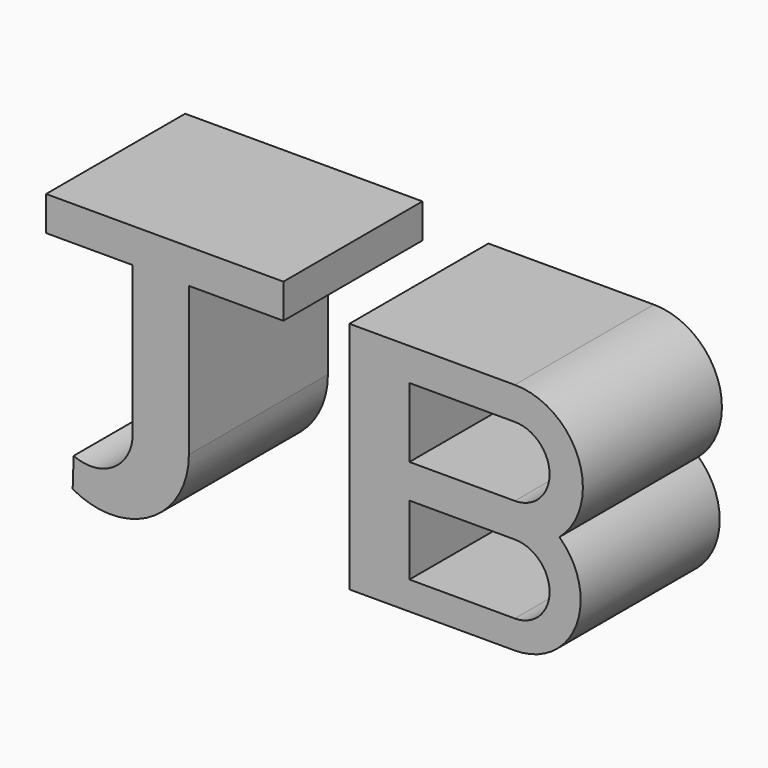
from build123d import *

# Parameters (mm, degrees)
F1_W     = 30.3102508187
F1_H     = 9.3834362134
F1_H_2   = 8.121065446
F1_H_3   = 9.7791151471
F2_DEPTH = 50
F0_W     = 16.1465834826
F0_H     = 42.7742786705


with BuildPart() as f2:
    # F1 (on Front) → F2 (new body)
    with BuildSketch(Plane.XZ):
        Polygon((32.2931706905, 48.1918900415), (15.0134908035, 48.1918900415), (15.0134908035, -19.091726765), (32.2931706905, -19.091726765), (32.2931706905, -10.970661319), (32.2931706905, 9.029338681), (32.2931706905, 18.8084538281), (32.2931706905, 38.8084538281), align=None)
        with Locations((47.4482960999, 43.5001719348)):
            Rectangle(F1_W, F1_H)
        with Locations((47.4482960999, -15.031194042)):
            Rectangle(F1_W, F1_H_2)
        with Locations((47.4482960999, 13.9188962546)):
            Rectangle(F1_W, F1_H_3)
        with BuildLine():
            ThreePointArc((62.6034215093, 9.029338681), (69.4460070683, 10.2638059158), (75.4258349795, 13.8115579703))
            ThreePointArc((75.4258349795, 13.8115579703), (69.4842509545, 17.5150933645), (62.6034215093, 18.8084538281))
            Line((62.6034215093, 18.8084538281), (62.6034215093, 9.029338681))
        make_face()
        with BuildLine():
            ThreePointArc((62.6034215093, -19.091726765), (80.2601513422, -7.0224659137), (75.4258349795, 13.8115579703))
            ThreePointArc((75.4258349795, 13.8115579703), (69.4460070683, 10.2638059158), (62.6034215093, 9.029338681))
            ThreePointArc((62.6034215093, 9.029338681), (72.6034215093, -0.970661319), (62.6034215093, -10.970661319))
            Line((62.6034215093, -10.970661319), (62.6034215093, -19.091726765))
        make_face()
        with BuildLine():
            ThreePointArc((75.4258349795, 13.8115579703), (80.9502299547, 35.4531999203), (62.6034215093, 48.1918900415))
            Line((62.6034215093, 48.1918900415), (62.6034215093, 38.8084538281))
            ThreePointArc((62.6034215093, 38.8084538281), (72.6034215093, 28.8084538281), (62.6034215093, 18.8084538281))
            ThreePointArc((62.6034215093, 18.8084538281), (69.4842509545, 17.5150933645), (75.4258349795, 13.8115579703))
        make_face()
    extrude(amount=F2_DEPTH)


with BuildPart() as f2b:
    # F0 (on Front) → F2, piece 2 (new body)
    with BuildSketch(Plane.XZ):
        with Locations((-39.2333650962, 21.3871393353)):
            Rectangle(F0_W, F0_H)
        with BuildLine():
            Line((-31.1600733548, 0), (-47.3066568375, 0))
            ThreePointArc((-47.3066568375, 0), (-52.8071535408, -10.1356876731), (-64.3030628562, -11.0476622358))
            Line((-64.3030628562, -11.0476622358), (-64.5863339305, -19.5458643138))
            ThreePointArc((-64.5863339305, -19.5458643138), (-42.2667634376, -19.3607573964), (-31.1600733548, 0))
        make_face()
        Polygon((-3.9658276364, 52.6888519526), (-72.2347125411, 52.6888519526), (-72.2347125411, 42.7742786705), (-47.3066568375, 42.7742786705), (-31.1600733548, 42.7742786705), (-3.9658276364, 42.7742786705), align=None)
    extrude(amount=F2_DEPTH)


solid = Compound([f2.part, f2b.part])
